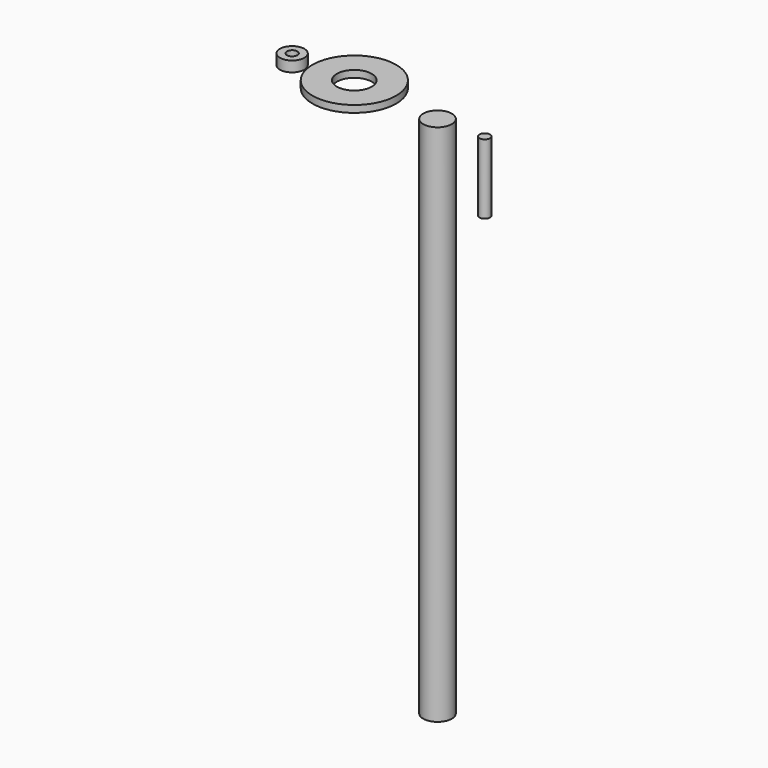
from build123d import *

# Parameters (mm, degrees)
F0_R     = 3.5
F0_R_2   = 1.5
F1_DEPTH = 3
F0_R_3   = 12
F0_R_4   = 5
F2_DEPTH = 2
F0_R_5   = 4.1
F3_DEPTH = 150
F4_DEPTH = 20


with BuildPart() as f1:
    # F0 (on Top) → F1 (new body)
    with BuildSketch(Plane.XY):
        with Locations((-23.574933, 0)):
            Circle(F0_R)
        with Locations((-23.574933, 0)):
            Circle(F0_R_2, mode=Mode.SUBTRACT)
    extrude(amount=F1_DEPTH)


with BuildPart() as f2:
    # F0 (on Top) → F2 (new body)
    with BuildSketch(Plane.XY):
        with Locations((-5.758761, 0)):
            Circle(F0_R_3)
        with Locations((-5.758761, 0)):
            Circle(F0_R_4, mode=Mode.SUBTRACT)
    extrude(amount=F2_DEPTH)


with BuildPart() as f3:
    # F0 (on Top) → F3 (new body)
    with BuildSketch(Plane.XY):
        with Locations((18.081572, 0)):
            Circle(F0_R_5)
    extrude(amount=-F3_DEPTH)


with BuildPart() as f4:
    # F0 (on Top) → F4 (new body)
    with BuildSketch(Plane.XY):
        with Locations((31.632435, 0)):
            Circle(F0_R_2)
    extrude(amount=-F4_DEPTH)


solid = Compound([f1.part, f2.part, f3.part, f4.part])
